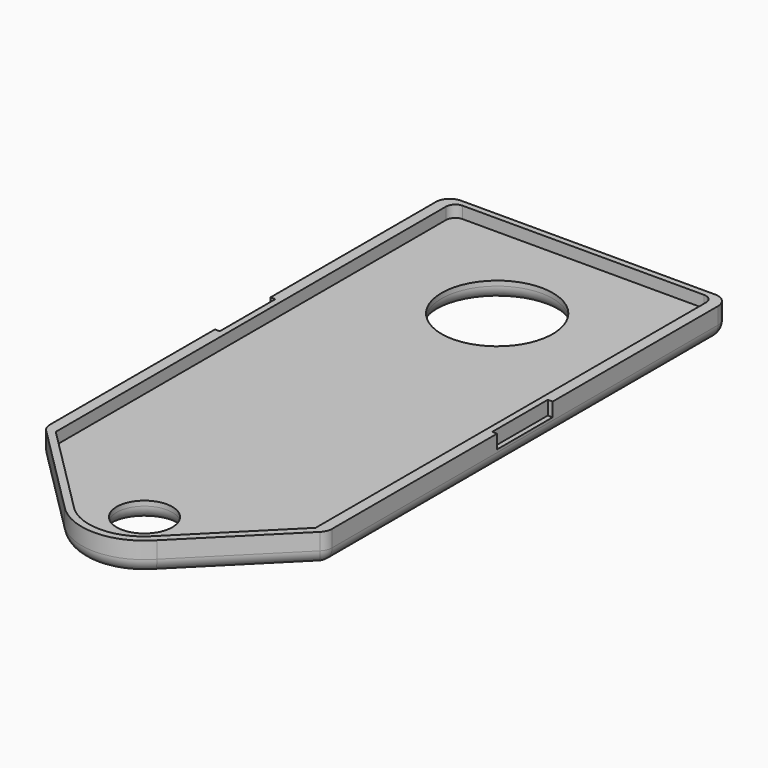
from build123d import *

# Parameters (mm, degrees)
PAD011_DEPTH            = 2.2
SKETCH039_R             = 4
POCKET022_DEPTH         = 5
SKETCH040_R             = 2
POCKET027_DEPTH         = 5
POCKET023_DEPTH         = 0.85
SKETCH042_W             = 0.35
SKETCH042_H             = 0.6
POCKET024_DEPTH         = 25
FILLET004_R             = 1
SKETCH043_W             = 5
SKETCH043_H             = 1
POCKET029_DEPTH         = 0.35
SKETCH044_W             = 5
SKETCH044_H             = 1
POCKET028_DEPTH         = 0.35
BODY002_PLACEMENT_ANGLE = 180


with BuildPart() as part:
    # Sketch036 → Pad011 (new body)
    with BuildSketch(Plane.XY):
        with BuildLine():
            Line((-10.15, 18.375), (10.15, 18.375))
            Line((10.15, 18.375), (10.15, -17.75))
            Line((3.33, -24.57), (10.15, -17.75))
            ThreePointArc((-3.33, -24.57), (0, -26.037308), (3.33, -24.57))
            Line((-10.15, -17.75), (-3.33, -24.57))
            Line((-10.15, -17.75), (-10.15, 18.375))
        make_face()
    extrude(amount=PAD011_DEPTH)

    # Sketch039 → Pocket022 (cut)
    with BuildSketch(Plane.XY):
        with Locations((0, 10.2)):
            Circle(SKETCH039_R)
    extrude(amount=POCKET022_DEPTH, mode=Mode.SUBTRACT)

    # Sketch040 → Pocket027 (cut)
    with BuildSketch(Plane.XY):
        with Locations((0, -21.525)):
            Circle(SKETCH040_R)
    extrude(amount=POCKET027_DEPTH, mode=Mode.SUBTRACT)

    # Sketch041 → Pocket023 (cut)
    with BuildSketch(Plane.XY):
        with BuildLine():
            Line((-9.35, 17.285263), (-9.35, -17.814737))
            Line((-9.35, -17.814737), (-2.6, -24.564737))
            ThreePointArc((-2.6, -24.564737), (0, -25.525), (2.6, -24.564737))
            Line((2.6, -24.564737), (9.35, -17.814737))
            Line((9.35, -17.814737), (9.35, 17.285263))
            ThreePointArc((9.35, 17.285263), (9.155303, 17.755303), (8.685263, 17.95))
            Line((8.685263, 17.95), (-8.685263, 17.95))
            ThreePointArc((-8.685263, 17.95), (-9.155303, 17.755303), (-9.35, 17.285263))
        make_face()
    extrude(amount=POCKET023_DEPTH, mode=Mode.SUBTRACT)

    # Sketch042 (on Face16 of Pocket023) → Pocket024 (cut)
    with BuildSketch(Plane.YZ.offset(-9.35)):
        with Locations((-9.625, -1.8)):
            Rectangle(SKETCH042_W, SKETCH042_H)
        with Locations((9.625, -1.8)):
            Rectangle(SKETCH042_W, SKETCH042_H)
    extrude(amount=-POCKET024_DEPTH, mode=Mode.SUBTRACT)

    # Fillet004
    fillet004_edges = [part.edges().sort_by_distance(p)[0] for p in [
        (10.15, -17.75, 1.1),
        (10.15, 18.375, 1.1),
        (-6.74, -21.16, 2.2),
        (-10.15, 0.3125, 2.2),
        (0, -26.037308, 2.2),
        (0, 18.375, 2.2),
        (6.74, -21.16, 2.2),
        (10.15, 0.3125, 2.2),
        (-2, -21.525, 2.2),
        (-4, 10.2, 2.2),
        (-10.15, 18.375, 1.1),
        (-10.15, -17.75, 1.1),
    ]]
    fillet(fillet004_edges, radius=FILLET004_R)

    # Sketch043 (on Face10 of Fillet004) → Pocket029 (cut)
    with BuildSketch(Plane(origin=(-10.15, 0, 0), x_dir=(0, -1, 0), z_dir=(-1, 0, 0))):
        with Locations((0, 0.5)):
            Rectangle(SKETCH043_W, SKETCH043_H)
    extrude(amount=-POCKET029_DEPTH, mode=Mode.SUBTRACT)

    # Sketch044 (on Face11 of Pocket029) → Pocket028 (cut)
    with BuildSketch(Plane.YZ.offset(10.15)):
        with Locations((0, 0.5)):
            Rectangle(SKETCH044_W, SKETCH044_H)
    extrude(amount=-POCKET028_DEPTH, mode=Mode.SUBTRACT)


with BuildPart() as part_1:
    # Body002 placement: moved
    add(part.part.rotate(Axis((0, 0, 0), (0, 1, 0)), BODY002_PLACEMENT_ANGLE))


solid = part_1.part
